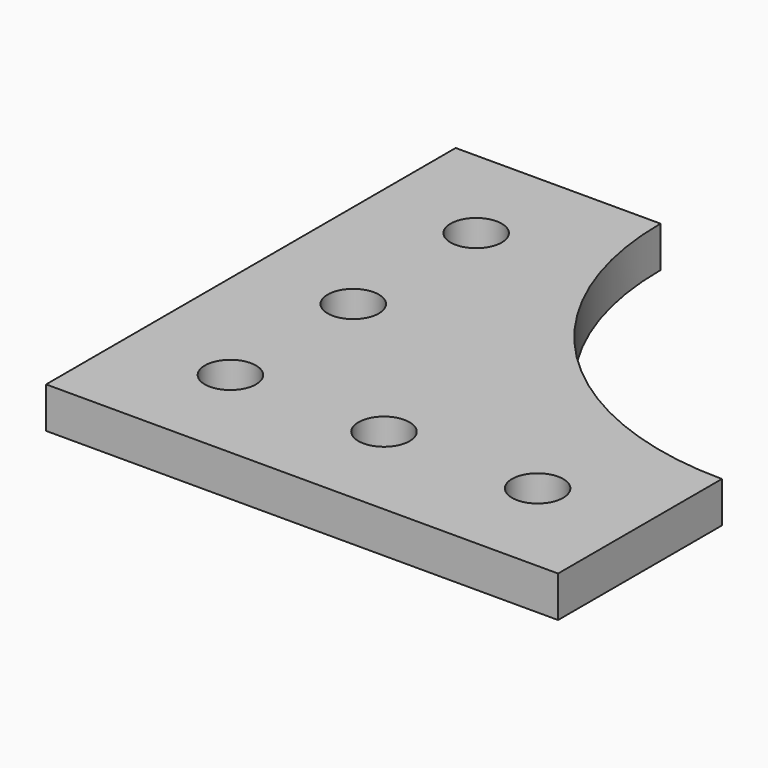
from build123d import *

# Parameters (mm, degrees)
F0_W     = 20
F0_H     = 30
F0_R     = 2.5
F0_W_2   = 30
F0_H_2   = 20
F1_DEPTH = 4


with BuildPart() as f1:
    # F0 (on Top) → F1 (new body)
    with BuildSketch(Plane.XY):
        with Locations((10, 35)):
            Rectangle(F0_W, F0_H)
        with Locations((10, 25)):
            Circle(F0_R, mode=Mode.SUBTRACT)
        with Locations((10, 40)):
            Circle(F0_R, mode=Mode.SUBTRACT)
        with BuildLine():
            Line((20, 50), (20, 20))
            Line((20, 20), (50, 20))
            ThreePointArc((50, 20), (28.786797, 28.786797), (20, 50))
        make_face()
        with Locations((35, 10)):
            Rectangle(F0_W_2, F0_H_2)
        with Locations((25, 10)):
            Circle(F0_R, mode=Mode.SUBTRACT)
        with Locations((40, 10)):
            Circle(F0_R, mode=Mode.SUBTRACT)
        with Locations((10, 10)):
            Rectangle(F0_W, F0_H_2)
        with Locations((10, 10)):
            Circle(F0_R, mode=Mode.SUBTRACT)
    extrude(amount=F1_DEPTH)


solid = f1.part
